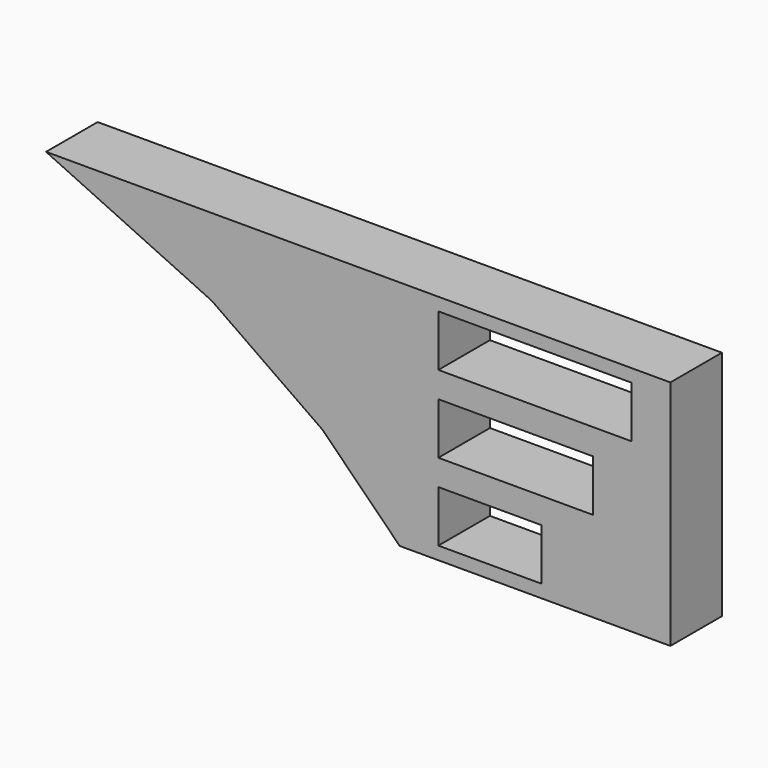
from build123d import *

# Parameters (mm, degrees)
F0_W     = 8
F0_H     = 4
F0_W_2   = 12
F0_W_3   = 15
F1_DEPTH = 5


with BuildPart() as f1:
    # F0 (on Front) → F1 (new body)
    with BuildSketch(Plane.XZ):
        Polygon((-3, 0), (0, 0), (18, 0), (18, 18), (0, 18), (-30.43593, 18), (-17.568888, 12), (-9, 6), align=None)
        with Locations((4, 3)):
            Rectangle(F0_W, F0_H, mode=Mode.SUBTRACT)
        with Locations((6, 9)):
            Rectangle(F0_W_2, F0_H, mode=Mode.SUBTRACT)
        with Locations((7.5, 15)):
            Rectangle(F0_W_3, F0_H, mode=Mode.SUBTRACT)
    extrude(amount=F1_DEPTH)


solid = f1.part
